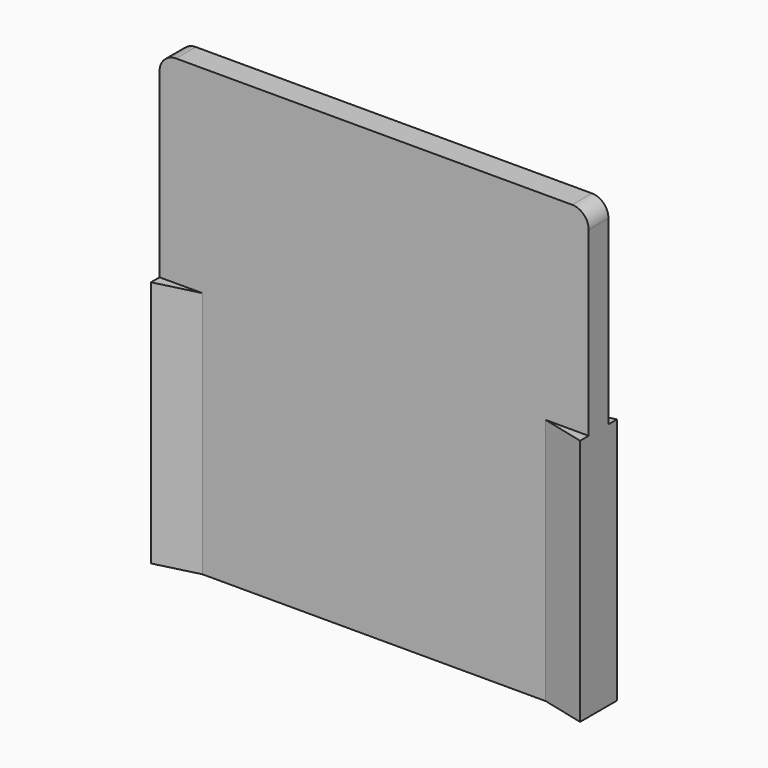
from build123d import *

# Parameters (mm, degrees)
F1_DEPTH = 27
F2_DEPTH = 15
F3_R     = 1


with BuildPart() as f1:
    # F0 (on Top) → F1 (new body)
    with BuildSketch(Plane.XY):
        Polygon((-10.4, 0.75), (-13, 0.75), (-13, -0.75), (-10.4, -0.75), (10.4, -0.75), (13, -0.75), (13, 0.75), (10.4, 0.75), align=None)
    extrude(amount=F1_DEPTH)

    # F0 (on Top) → F2 (join)
    with BuildSketch(Plane.XY):
        Polygon((-13, 1.4), (-13, 0.75), (-10.4, 0.75), align=None)
        Polygon((-10.4, -0.75), (-13, -0.75), (-13, -1.4), align=None)
        Polygon((13, 1.4), (10.4, 0.75), (13, 0.75), align=None)
        Polygon((13, -0.75), (10.4, -0.75), (13, -1.4), align=None)
    extrude(amount=F2_DEPTH)

    # F3
    f3_edges = [f1.edges().sort_by_distance(p)[0] for p in [
        (-13, 0, 27),
        (13, 0, 27),
    ]]
    fillet(f3_edges, radius=F3_R)


solid = f1.part
